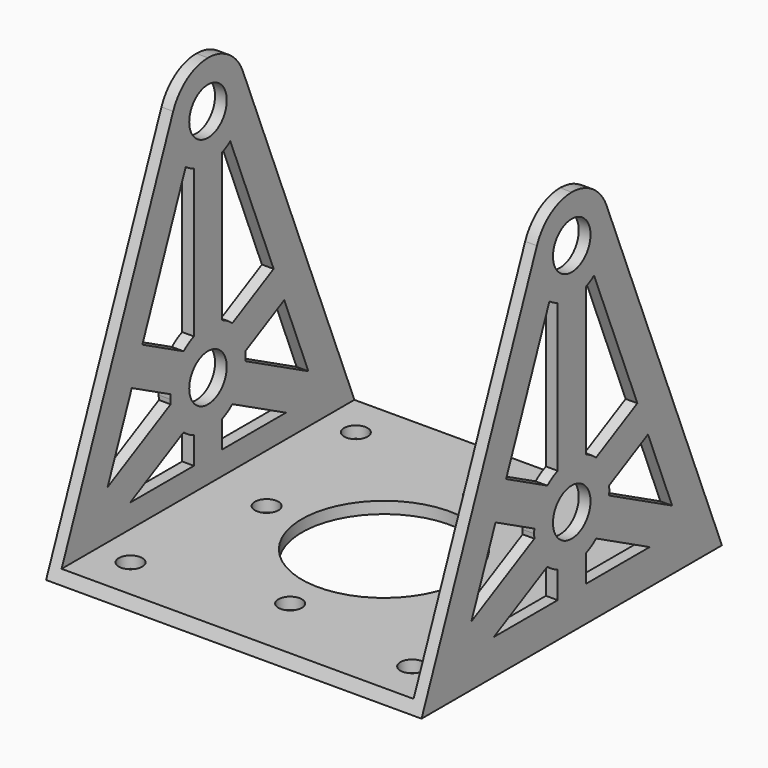
from build123d import *

# Parameters (mm, degrees)
F0_W      = 101.6
F0_H      = 101.6
F1_DEPTH  = 3.175
F2_W      = 3.175
F2_H      = 101.6
F3_DEPTH  = 101.6
F4_W      = 3.175
F4_H      = 101.6
F5_DEPTH  = 101.6
F7_DEPTH  = 101.6
F8_R      = 6.35
F9_DEPTH  = 101.6
F11_DEPTH = 101.6
F12_R     = 3.175
F12_R_2   = 22.225
F13_DEPTH = 25.4


with BuildPart() as f1:
    # F0 (on Top) → F1 (new body)
    with BuildSketch(Plane.XY):
        Rectangle(F0_W, F0_H)
    extrude(amount=F1_DEPTH)

    # F2 (on face) → F3 (join)
    with BuildSketch(Plane.XY.offset(3.175)):
        with Locations((-49.2125, 0)):
            Rectangle(F2_W, F2_H)
    extrude(amount=F3_DEPTH)

    # F4 (on face) → F5 (join)
    with BuildSketch(Plane.XY.offset(3.175)):
        with Locations((49.2125, 0)):
            Rectangle(F4_W, F4_H)
    extrude(amount=F5_DEPTH)

    # F6 (on face) → F7 (cut)
    with BuildSketch(Plane(origin=(-50.8, 0, 0), x_dir=(0, -1, 0), z_dir=(-1, 0, 0))):
        with BuildLine():
            Line((-50.8, 104.775), (-50.8, 0))
            Line((-50.8, 0), (-11.779376, 96.822242))
            ThreePointArc((-11.779376, 96.822242), (-7.106336, 102.600682), (0, 104.775))
            Line((0, 104.775), (-50.8, 104.775))
        make_face()
        with BuildLine():
            Line((11.779376, 96.822242), (50.8, 0))
            Line((50.8, 0), (50.8, 104.775))
            Line((50.8, 104.775), (0, 104.775))
            ThreePointArc((0, 104.775), (7.106336, 102.600682), (11.779376, 96.822242))
        make_face()
    extrude(amount=-F7_DEPTH, mode=Mode.SUBTRACT)

    # F8 (on face) → F9 (cut)
    with BuildSketch(Plane(origin=(-50.8, 0, 0), x_dir=(0, -1, 0), z_dir=(-1, 0, 0))):
        with Locations((0, 28.575)):
            Circle(F8_R)
        with Locations((0, 92.075)):
            Circle(F8_R)
    extrude(amount=-F9_DEPTH, mode=Mode.SUBTRACT)

    # F10 (on face) → F11 (cut)
    with BuildSketch(Plane(origin=(-50.8, 0, 0), x_dir=(0, -1, 0), z_dir=(-1, 0, 0))):
        with BuildLine():
            ThreePointArc((4.7625, 40.348215), (6.59431, 39.428804), (8.25437, 38.226703))
            Line((8.25437, 38.226703), (22.205564, 45.470004))
            Line((22.205564, 45.470004), (7.541341, 81.856479))
            ThreePointArc((7.541341, 81.856479), (6.200838, 80.991697), (4.7625, 80.301785))
            Line((4.7625, 80.301785), (4.7625, 40.348215))
        make_face()
        with BuildLine():
            ThreePointArc((12.643355, 29.773157), (12.685831, 29.174748), (12.7, 28.575))
            ThreePointArc((12.7, 28.575), (12.685831, 27.975252), (12.643355, 27.376843))
            Line((12.643355, 27.376843), (33.957008, 16.311037))
            Line((33.957008, 16.311037), (25.782389, 36.594794))
            Line((25.782389, 36.594794), (12.643355, 29.773157))
        make_face()
        with BuildLine():
            ThreePointArc((4.7625, 40.348215), (6.59431, 39.428804), (8.25437, 38.226703))
            Line((8.25437, 38.226703), (22.205564, 45.470004))
            Line((22.205564, 45.470004), (7.541341, 81.856479))
            ThreePointArc((7.541341, 81.856479), (6.200838, 80.991697), (4.7625, 80.301785))
            Line((4.7625, 80.301785), (4.7625, 40.348215))
        make_face()
        with BuildLine():
            ThreePointArc((-8.25437, 38.226703), (-6.59431, 39.428804), (-4.7625, 40.348215))
            Line((-4.7625, 40.348215), (-4.7625, 80.301785))
            ThreePointArc((-4.7625, 80.301785), (-6.200838, 80.991697), (-7.541341, 81.856479))
            Line((-7.541341, 81.856479), (-22.205564, 45.470004))
            Line((-22.205564, 45.470004), (-8.25437, 38.226703))
        make_face()
        with BuildLine():
            ThreePointArc((-12.643355, 27.376843), (-12.7, 28.575), (-12.643355, 29.773157))
            Line((-12.643355, 29.773157), (-25.782389, 36.594794))
            Line((-25.782389, 36.594794), (-33.957008, 16.311037))
            Line((-33.957008, 16.311037), (-12.643355, 27.376843))
        make_face()
        with BuildLine():
            Line((-4.7625, 9.525), (-4.7625, 16.801785))
            ThreePointArc((-4.7625, 16.801785), (-6.59431, 17.721196), (-8.25437, 18.923297))
            Line((-8.25437, 18.923297), (-26.356264, 9.525))
            Line((-26.356264, 9.525), (-4.7625, 9.525))
        make_face()
        with BuildLine():
            Line((26.356264, 9.525), (8.25437, 18.923297))
            ThreePointArc((8.25437, 18.923297), (6.59431, 17.721196), (4.7625, 16.801785))
            Line((4.7625, 16.801785), (4.7625, 9.525))
            Line((4.7625, 9.525), (26.356264, 9.525))
        make_face()
        with BuildLine():
            ThreePointArc((-8.25437, 38.226703), (-6.59431, 39.428804), (-4.7625, 40.348215))
            Line((-4.7625, 40.348215), (-4.7625, 80.301785))
            ThreePointArc((-4.7625, 80.301785), (-6.200838, 80.991697), (-7.541341, 81.856479))
            Line((-7.541341, 81.856479), (-22.205564, 45.470004))
            Line((-22.205564, 45.470004), (-8.25437, 38.226703))
        make_face()
    extrude(amount=-F11_DEPTH, mode=Mode.SUBTRACT)

    # F12 (on face) → F13 (cut)
    with BuildSketch(Plane.XY.offset(3.175)):
        with Locations((38.1, 38.1)):
            Circle(F12_R)
        with Locations((31.75, 0)):
            Circle(F12_R)
        with Locations((38.1, -38.1)):
            Circle(F12_R)
        Circle(F12_R_2)
        with Locations((0, -31.75)):
            Circle(F12_R)
        with Locations((-31.75, 0)):
            Circle(F12_R)
        with Locations((0, 31.75)):
            Circle(F12_R)
        with Locations((-38.1, 38.1)):
            Circle(F12_R)
        with Locations((-38.1, -38.1)):
            Circle(F12_R)
    extrude(amount=-F13_DEPTH, mode=Mode.SUBTRACT)


solid = f1.part
